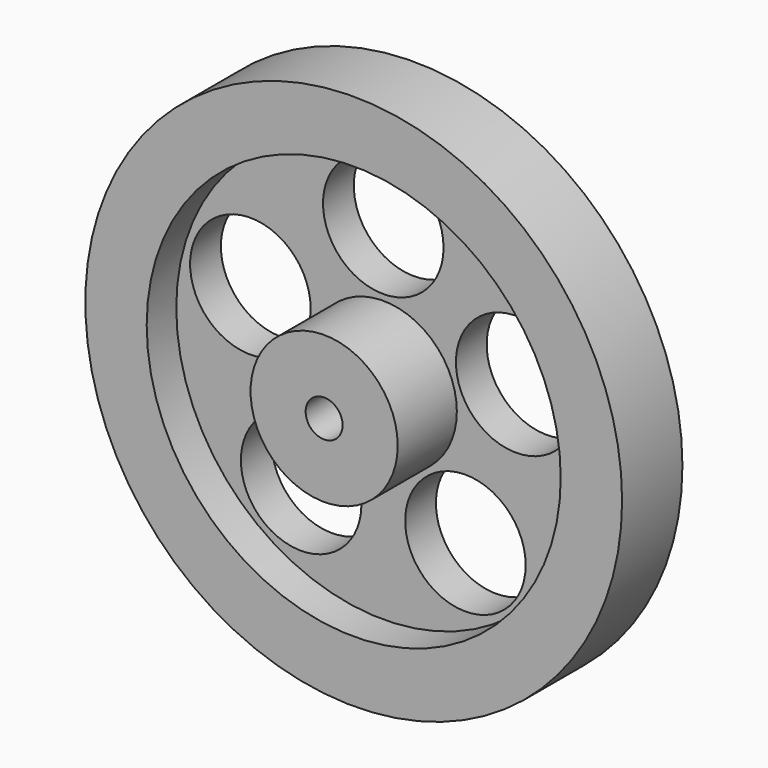
from build123d import *

# Parameters (mm, degrees)
F0_R     = 36.3
F1_DEPTH = 10.2
F2_R     = 28
F3_DEPTH = 5
F4_R     = 9.95
F5_DEPTH = 10
F6_R     = 2.5
F7_DEPTH = 15.201
F8_R     = 8.15
F9_DEPTH = 5.201


with BuildPart() as f1:
    # F0 (on Front) → F1 (new body)
    with BuildSketch(Plane.XZ):
        Circle(F0_R)
    extrude(amount=F1_DEPTH)

    # F2 (on face) → F3 (cut)
    with BuildSketch(Plane.XZ.offset(10.2)):
        Circle(F2_R)
    extrude(amount=-F3_DEPTH, mode=Mode.SUBTRACT)

    # F4 (on face) → F5 (join)
    with BuildSketch(Plane.XZ.offset(5.2)):
        Circle(F4_R)
    extrude(amount=F5_DEPTH)

    # F6 (on face) → F7 (cut, through all)
    with BuildSketch(Plane.XZ.offset(15.2)):
        Circle(F6_R)
    extrude(amount=-F7_DEPTH, mode=Mode.SUBTRACT)

    # F8 (on face) → F9 (cut, through all)
    with BuildSketch(Plane.XZ.offset(5.2)):
        with Locations((0, 18.899804)):
            Circle(F8_R)
        with Locations((-17.974782, 5.840361)):
            Circle(F8_R)
        with Locations((-11.109026, -15.290263)):
            Circle(F8_R)
        with Locations((11.109026, -15.290263)):
            Circle(F8_R)
        with Locations((17.974782, 5.840361)):
            Circle(F8_R)
    extrude(amount=-F9_DEPTH, mode=Mode.SUBTRACT)


solid = f1.part
